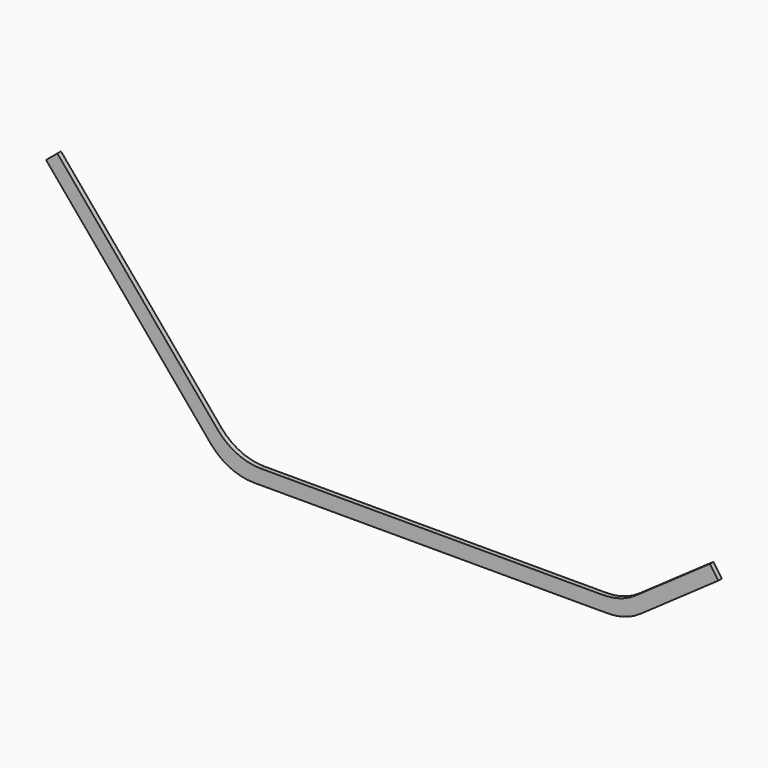
from build123d import *

# Parameters (mm, degrees)
F1_DEPTH = 4


with BuildPart() as f1:
    # F0 (on Front) → F1 (new body)
    with BuildSketch(Plane.XZ):
        with BuildLine():
            ThreePointArc((-28.156867, 4.884096), (-10.985558, -8.291913), (10.145355, -12.976524))
            Line((10.145355, -12.976524), (323.065033, -12.976524))
            ThreePointArc((323.065033, -12.976524), (338.100323, -10.662371), (351.743855, -3.934126))
            Line((351.743855, -3.934126), (420.633628, 44.303012))
            Line((420.633628, 44.303012), (413.177134, 54.951989))
            Line((413.177134, 54.951989), (347.64497, 9.065874))
            ThreePointArc((347.64497, 9.065874), (334.001439, 2.337629), (318.966149, 0.023476))
            Line((318.966149, 0.023476), (16.207355, 0.023476))
            ThreePointArc((16.207355, 0.023476), (-4.923558, 4.708087), (-22.094867, 17.884096))
            Line((-22.094867, 17.884096), (-163.908352, 186.890826))
            Line((-163.908352, 186.890826), (-173.86693, 178.534587))
            Line((-173.86693, 178.534587), (-28.156867, 4.884096))
        make_face()
    extrude(amount=F1_DEPTH)


solid = f1.part
